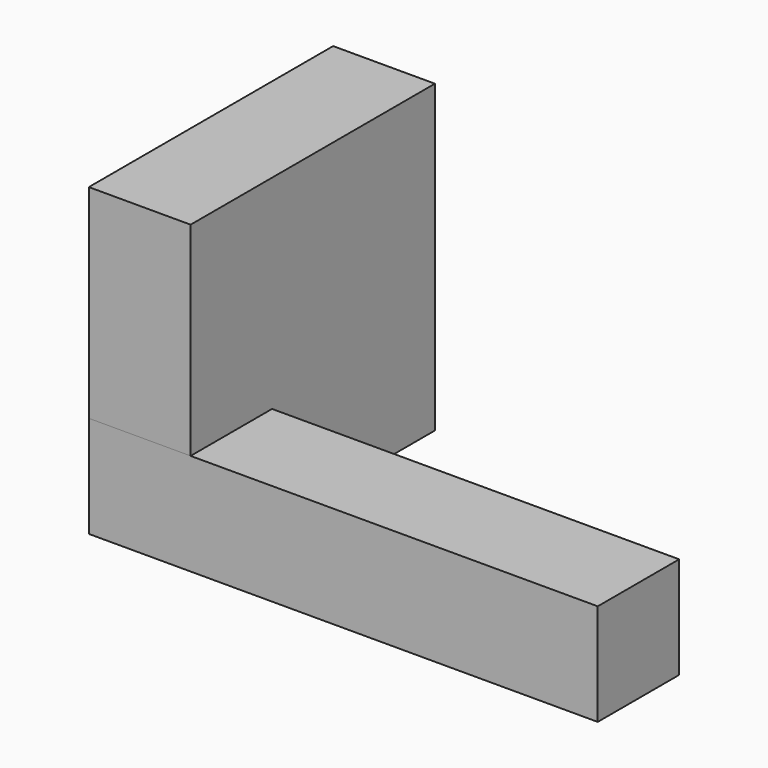
from build123d import *

# Parameters (mm, degrees)
BOX_W        = 10
BOX_H        = 30
BOX_DEPTH    = 30
BOX001_W     = 50
BOX001_H     = 10
BOX001_DEPTH = 10


with BuildPart() as obj1:
    # Box → Box (new body)
    with BuildSketch(Plane.XY):
        with Locations((5, 15)):
            Rectangle(BOX_W, BOX_H)
    extrude(amount=BOX_DEPTH)


with BuildPart() as cube_int:
    # Box001 → Box001 (new body)
    with BuildSketch(Plane.XY):
        with Locations((25, 5)):
            Rectangle(BOX001_W, BOX001_H)
    extrude(amount=BOX001_DEPTH)


solid = Compound([obj1.part, cube_int.part])
